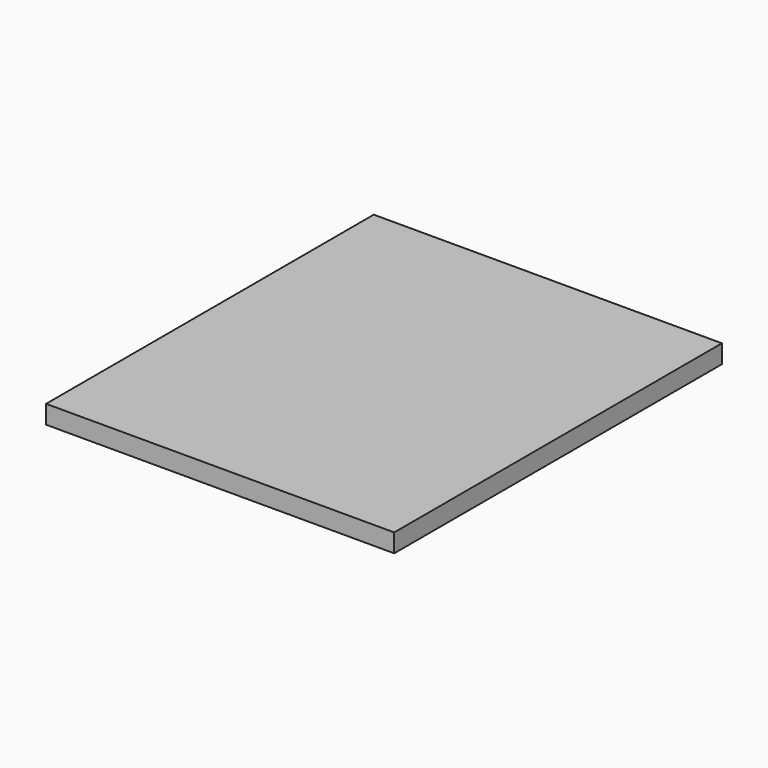
from build123d import *

# Parameters (mm, degrees)
SKETCH_W     = 340
SKETCH_H     = 400
PAD001_DEPTH = 18


with BuildPart() as part:
    # Sketch → Pad001 (new body)
    with BuildSketch(Plane.XY):
        with Locations((-170, 200)):
            Rectangle(SKETCH_W, SKETCH_H)
    extrude(amount=PAD001_DEPTH)


solid = part.part
